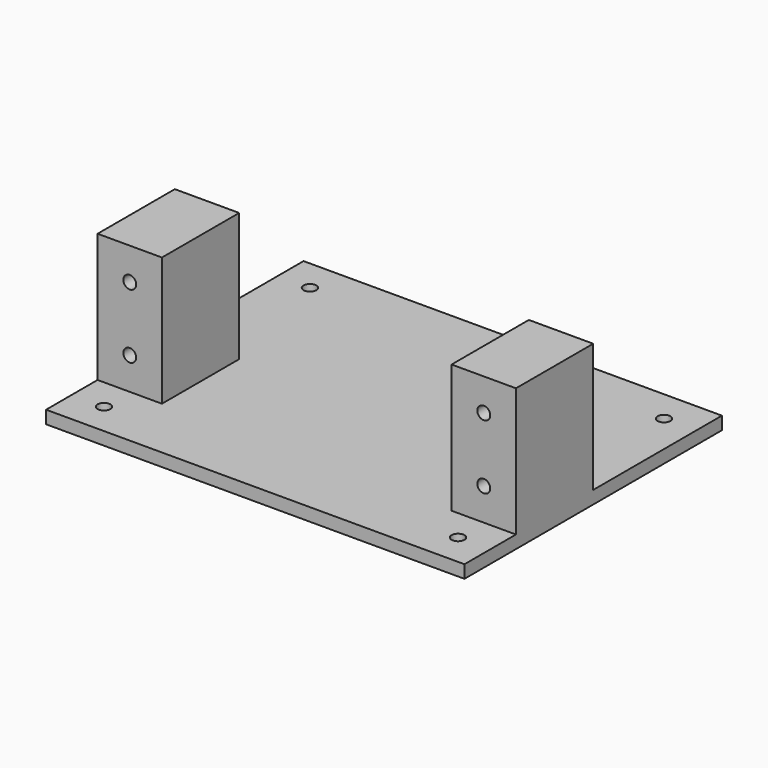
from build123d import *

# Parameters (mm, degrees)
F0_W     = 65
F0_H     = 50
F1_DEPTH = 2
F2_W     = 10
F2_H     = 15
F3_DEPTH = 20
F4_R     = 1
F5_DEPTH = 5
F6_R     = 1
F7_DEPTH = 25


with BuildPart() as f1:
    # F0 (on Top) → F1 (new body)
    with BuildSketch(Plane.XY):
        with Locations((32.5, 25)):
            Rectangle(F0_W, F0_H)
    extrude(amount=F1_DEPTH)

    # F2 (on face) → F3 (join)
    with BuildSketch(Plane.XY.offset(2)):
        with Locations((5, 17.5)):
            Rectangle(F2_W, F2_H)
        with Locations((60, 17.5)):
            Rectangle(F2_W, F2_H)
    extrude(amount=F3_DEPTH)

    # F4 (on face) → F5 (cut)
    with BuildSketch(Plane.XZ.offset(-10)):
        with Locations((5, 17)):
            Circle(F4_R)
        with Locations((5, 7)):
            Circle(F4_R)
        with Locations((60, 17)):
            Circle(F4_R)
        with Locations((60, 7)):
            Circle(F4_R)
    extrude(amount=-F5_DEPTH, mode=Mode.SUBTRACT)

    # F6 (on face) → F7 (cut)
    with BuildSketch(Plane.XY.offset(2)):
        with Locations((5, 45)):
            Circle(F6_R)
        with Locations((60, 45)):
            Circle(F6_R)
        with Locations((60, 5)):
            Circle(F6_R)
        with Locations((5, 5)):
            Circle(F6_R)
    extrude(amount=-F7_DEPTH, mode=Mode.SUBTRACT)


solid = f1.part
